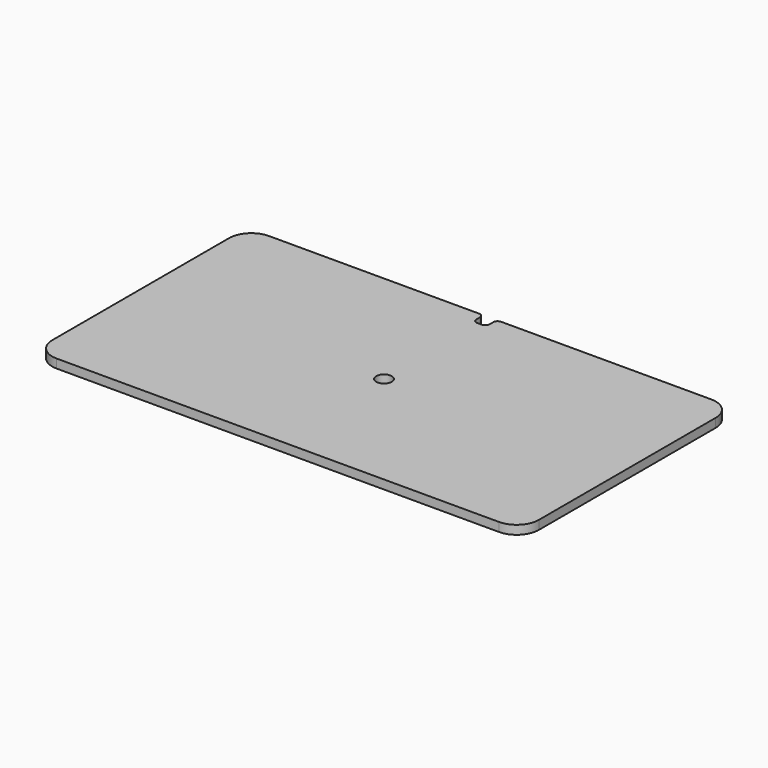
from build123d import *

# Parameters (mm, degrees)
F0_W     = 110
F0_H     = 60
F1_DEPTH = 2
F2_R     = 5
F3_W     = 3
F3_H     = 3
F4_DEPTH = 25
F5_R     = 1
F6_R     = 1.75
F7_DEPTH = 25


with BuildPart() as f1:
    # F0 (on Top) → F1 (new body)
    with BuildSketch(Plane.XY):
        Rectangle(F0_W, F0_H)
    extrude(amount=F1_DEPTH)

    # F2
    f2_edges = [f1.edges().sort_by_distance(p)[0] for p in [
        (55, -30, 1),
        (55, 30, 1),
        (-55, 30, 1),
        (-55, -30, 1),
    ]]
    fillet(f2_edges, radius=F2_R)

    # F3 (on face) → F4 (cut)
    with BuildSketch(Plane.XY.offset(2)):
        with Locations((0, 28.5)):
            Rectangle(F3_W, F3_H)
    extrude(amount=-F4_DEPTH, mode=Mode.SUBTRACT)

    # F5
    f5_edges = [f1.edges().sort_by_distance(p)[0] for p in [
        (-1.5, 30, 1),
        (-1.5, 27, 1),
        (1.5, 27, 1),
        (1.5, 30, 1),
    ]]
    fillet(f5_edges, radius=F5_R)

    # F6 (on face) → F7 (cut)
    with BuildSketch(Plane.XY.offset(2)):
        Circle(F6_R)
    extrude(amount=-F7_DEPTH, mode=Mode.SUBTRACT)


solid = f1.part
